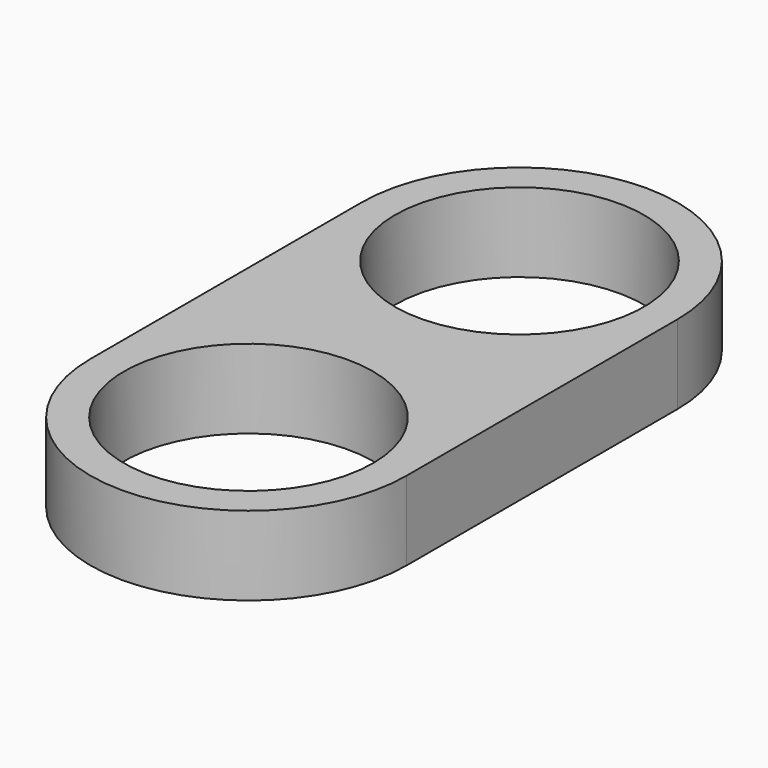
from build123d import *

# Parameters (mm, degrees)
F1_DEPTH = 177.8


with BuildPart() as f1:
    # F0 (on Top) → F1 (new body)
    with BuildSketch(Plane.XY):
        with BuildLine():
            Line((635.635, -513.514987), (711.2, -513.514987))
            ThreePointArc((711.2, -513.514987), (355.6, -157.914987), (0, -513.514987))
            Line((0, -513.514987), (75.565, -513.514987))
            ThreePointArc((75.565, -513.514987), (355.6, -233.479987), (635.635, -513.514987))
        make_face()
        with BuildLine():
            ThreePointArc((0, -513.514987), (355.6, -869.114987), (711.2, -513.514987))
            Line((711.2, -513.514987), (635.635, -513.514987))
            ThreePointArc((635.635, -513.514987), (355.6, -793.549987), (75.565, -513.514987))
            Line((75.565, -513.514987), (0, -513.514987))
        make_face()
        with BuildLine():
            Line((711.2, -513.514987), (711.2, 248.485013))
            ThreePointArc((711.2, 248.485013), (355.6, -107.114987), (0, 248.485013))
            Line((0, 248.485013), (0, -513.514987))
            ThreePointArc((0, -513.514987), (355.6, -157.914987), (711.2, -513.514987))
        make_face()
        with BuildLine():
            ThreePointArc((75.565, 248.485013), (355.6, 528.520013), (635.635, 248.485013))
            Line((635.635, 248.485013), (711.2, 248.485013))
            ThreePointArc((711.2, 248.485013), (355.6, 604.085013), (0, 248.485013))
            Line((0, 248.485013), (75.565, 248.485013))
        make_face()
        with BuildLine():
            Line((711.2, 248.485013), (635.635, 248.485013))
            ThreePointArc((635.635, 248.485013), (355.6, -31.549987), (75.565, 248.485013))
            Line((75.565, 248.485013), (0, 248.485013))
            ThreePointArc((0, 248.485013), (355.6, -107.114987), (711.2, 248.485013))
        make_face()
    extrude(amount=F1_DEPTH)


solid = f1.part
